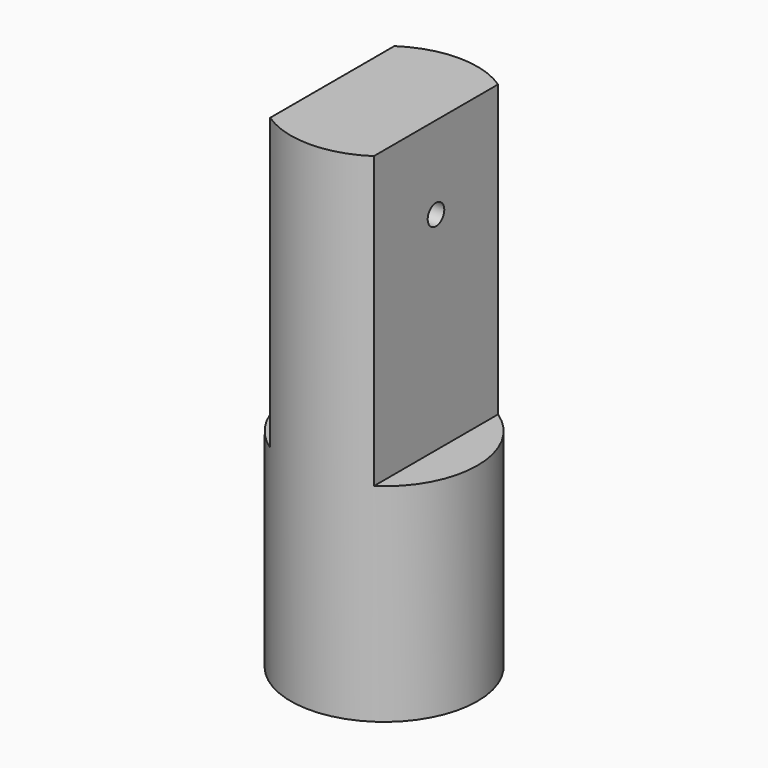
from build123d import *

# Parameters (mm, degrees)
F0_R     = 22.5
F1_DEPTH = 120
F3_DEPTH = 70
F4_R     = 20
F5_DEPTH = 35
F6_R     = 2.5
F7_DEPTH = 50


with BuildPart() as f1:
    # F0 (on Top) → F1 (new body)
    with BuildSketch(Plane.XY):
        Circle(F0_R)
    extrude(amount=F1_DEPTH)

    # F2 (on face) → F3 (cut)
    with BuildSketch(Plane.XY.offset(120)):
        with BuildLine():
            ThreePointArc((22.5, 0), (19.843135, 10.606602), (12.5, 18.708287))
            Line((12.5, 18.708287), (12.5, -18.708287))
            ThreePointArc((12.5, -18.708287), (19.843135, -10.606602), (22.5, 0))
        make_face()
        with BuildLine():
            Line((-12.5, -18.708287), (-12.5, 18.708287))
            ThreePointArc((-12.5, 18.708287), (-22.5, 0), (-12.5, -18.708287))
        make_face()
    extrude(amount=-F3_DEPTH, mode=Mode.SUBTRACT)

    # F4 (on Top) → F5 (cut)
    with BuildSketch(Plane.XY):
        Circle(F4_R)
    extrude(amount=F5_DEPTH, mode=Mode.SUBTRACT)

    # F6 (on Right) → F7 (cut, symmetric)
    with BuildSketch(Plane.YZ):
        with Locations((0, 100)):
            Circle(F6_R)
    extrude(amount=F7_DEPTH, both=True, mode=Mode.SUBTRACT)


solid = f1.part
